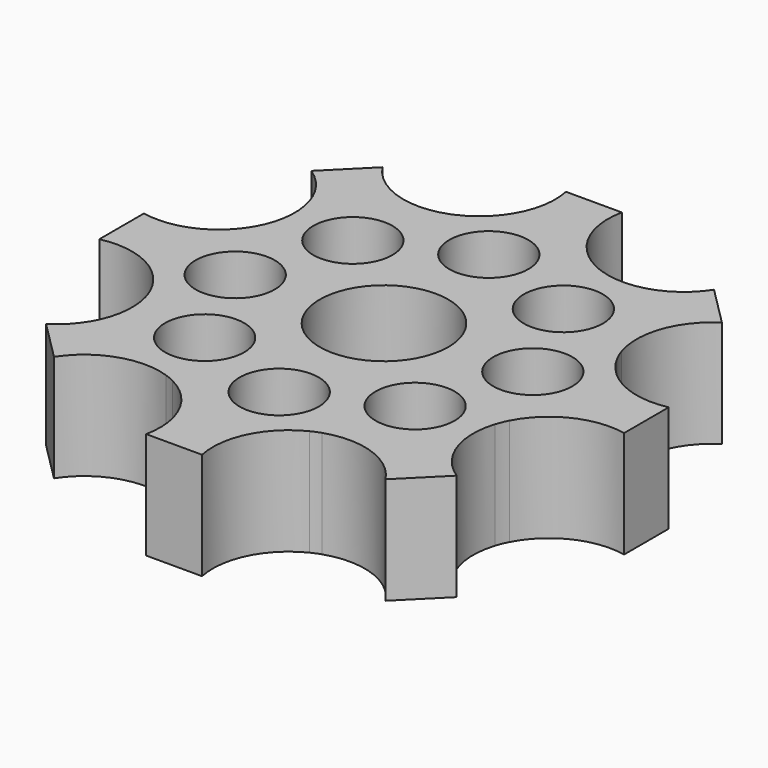
from build123d import *

# Parameters (mm, degrees)
F0_R     = 4.700441
F0_R_2   = 7.639991
F1_DEPTH = 12.7


with BuildPart() as f1:
    # F0 (on Top) → F1 (new body)
    with BuildSketch(Plane.XY):
        with BuildLine():
            ThreePointArc((-31.159675, -3.316997), (-25.589044, -3.879879), (-21.429032, -7.627286))
            ThreePointArc((-21.429032, -7.627286), (-20.918863, -8.664877), (-20.545919, -9.759308))
            ThreePointArc((-20.545919, -9.759308), (-20.837676, -15.350698), (-24.378688, -19.687746))
            Line((-24.378688, -19.687746), (-19.687746, -24.378688))
            ThreePointArc((-19.687746, -24.378688), (-15.080975, -20.794689), (-9.24426, -20.782746))
            ThreePointArc((-9.24426, -20.782746), (-8.694273, -20.989831), (-8.158942, -21.2323))
            ThreePointArc((-8.158942, -21.2323), (-4.040206, -25.367926), (-3.316997, -31.159675))
            Line((-3.316997, -31.159675), (3.316997, -31.159675))
            ThreePointArc((3.316997, -31.159675), (4.040206, -25.367926), (8.158942, -21.2323))
            ThreePointArc((8.158942, -21.2323), (8.694273, -20.989831), (9.24426, -20.782746))
            ThreePointArc((9.24426, -20.782746), (15.080975, -20.794689), (19.687746, -24.378688))
            Line((19.687746, -24.378688), (24.378688, -19.687746))
            ThreePointArc((24.378688, -19.687746), (20.810974, -15.166754), (20.708914, -9.408495))
            ThreePointArc((20.708914, -9.408495), (20.972336, -8.687026), (21.296224, -7.990603))
            ThreePointArc((21.296224, -7.990603), (25.440095, -3.991066), (31.159675, -3.316997))
            Line((31.159675, -3.316997), (31.159675, 3.316997))
            ThreePointArc((31.159675, 3.316997), (25.433909, 3.995395), (21.290733, 8.005222))
            ThreePointArc((21.290733, 8.005222), (20.974038, 8.687731), (20.715368, 9.394275))
            ThreePointArc((20.715368, 9.394275), (20.809661, 15.159319), (24.378688, 19.687746))
            Line((24.378688, 19.687746), (19.687746, 24.378688))
            ThreePointArc((19.687746, 24.378688), (15.080975, 20.794689), (9.24426, 20.782746))
            ThreePointArc((9.24426, 20.782746), (8.694273, 20.989831), (8.158942, 21.2323))
            ThreePointArc((8.158942, 21.2323), (4.040206, 25.367926), (3.316997, 31.159675))
            Line((3.316997, 31.159675), (0, 31.159675))
            Line((0, 31.159675), (-3.316997, 31.159675))
            ThreePointArc((-3.316997, 31.159675), (-4.147146, 25.193571), (-8.546653, 21.079222))
            ThreePointArc((-8.546653, 21.079222), (-8.703642, 21.01245), (-8.861864, 20.948657))
            ThreePointArc((-8.861864, 20.948657), (-14.88207, 20.74702), (-19.687746, 24.378688))
            Line((-19.687746, 24.378688), (-24.378688, 19.687746))
            ThreePointArc((-24.378688, 19.687746), (-20.728886, 14.818978), (-20.999746, 8.740112))
            ThreePointArc((-20.999746, 8.740112), (-21.014531, 8.704504), (-21.029255, 8.66887))
            ThreePointArc((-21.029255, 8.66887), (-25.136135, 4.178936), (-31.159675, 3.316997))
            Line((-31.159675, 3.316997), (-31.159675, -3.316997))
        make_face()
        with Locations((-16.848428, -1.032145)):
            Circle(F0_R, mode=Mode.SUBTRACT)
        with Locations((-11.183801, -12.643474)):
            Circle(F0_R, mode=Mode.SUBTRACT)
        Circle(F0_R_2, mode=Mode.SUBTRACT)
        with Locations((1.032145, -16.848428)):
            Circle(F0_R, mode=Mode.SUBTRACT)
        with Locations((12.643474, -11.183801)):
            Circle(F0_R, mode=Mode.SUBTRACT)
        with Locations((-12.643474, 11.183801)):
            Circle(F0_R, mode=Mode.SUBTRACT)
        with Locations((-1.032145, 16.848428)):
            Circle(F0_R, mode=Mode.SUBTRACT)
        with Locations((11.183801, 12.643474)):
            Circle(F0_R, mode=Mode.SUBTRACT)
        with Locations((16.848428, 1.032145)):
            Circle(F0_R, mode=Mode.SUBTRACT)
    extrude(amount=F1_DEPTH)


solid = f1.part
